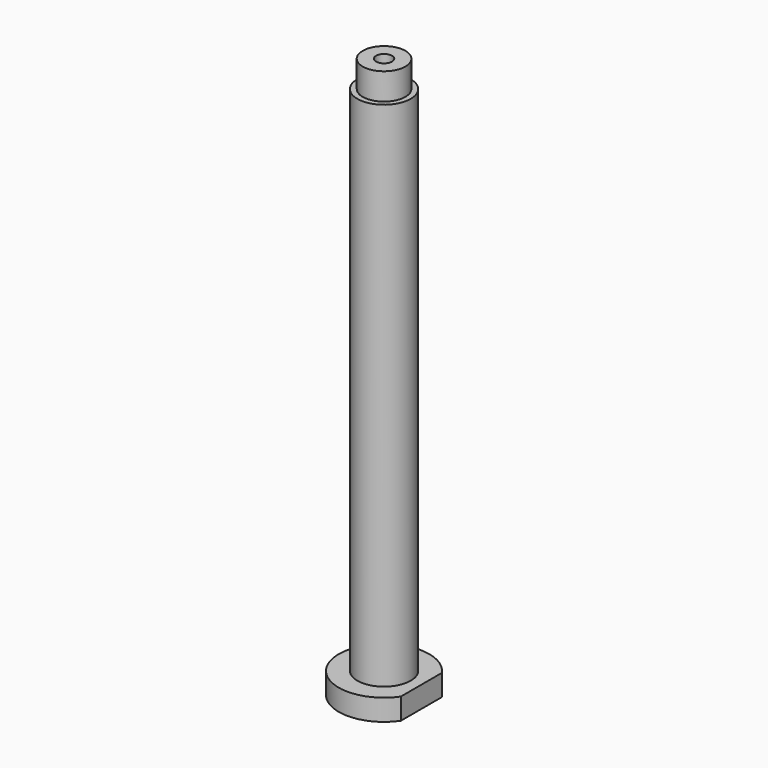
from build123d import *

# Parameters (mm, degrees)
F0_R     = 8.5
F1_DEPTH = 4
F2_R     = 5
F3_DEPTH = 100
F4_W     = 4
F4_H     = 5
F7_DEPTH = 4
F8_R     = 1.5
F9_DEPTH = 114.9


with BuildPart() as f1:
    # F0 (on Top) → F1 (new body)
    with BuildSketch(Plane.XY):
        Circle(F0_R)
    extrude(amount=F1_DEPTH)

    # F2 (on Top) → F3 (join)
    with BuildSketch(Plane.XY):
        Circle(F2_R)
    extrude(amount=F3_DEPTH)

    # F4 (on Right) → F5 (revolve)
    with BuildSketch(Plane.YZ):
        with Locations((2, 102.5)):
            Rectangle(F4_W, F4_H)
    revolve(axis=Axis((0, 0, 102.5), (0, 0, -1)))

    # F6 (on face) → F7 (cut)
    with BuildSketch(Plane(origin=(0, 0, 0), x_dir=(1, 0, 0), z_dir=(0, 0, -1))):
        with BuildLine():
            ThreePointArc((7, -4.821825), (8.5, 0), (7, 4.821825))
            Line((7, 4.821825), (7, -4.821825))
        make_face()
    extrude(amount=-F7_DEPTH, mode=Mode.SUBTRACT)

    # F8 (on face) → F9 (cut)
    with BuildSketch(Plane.XY.offset(105)):
        Circle(F8_R)
    extrude(amount=-F9_DEPTH, mode=Mode.SUBTRACT)


solid = f1.part
